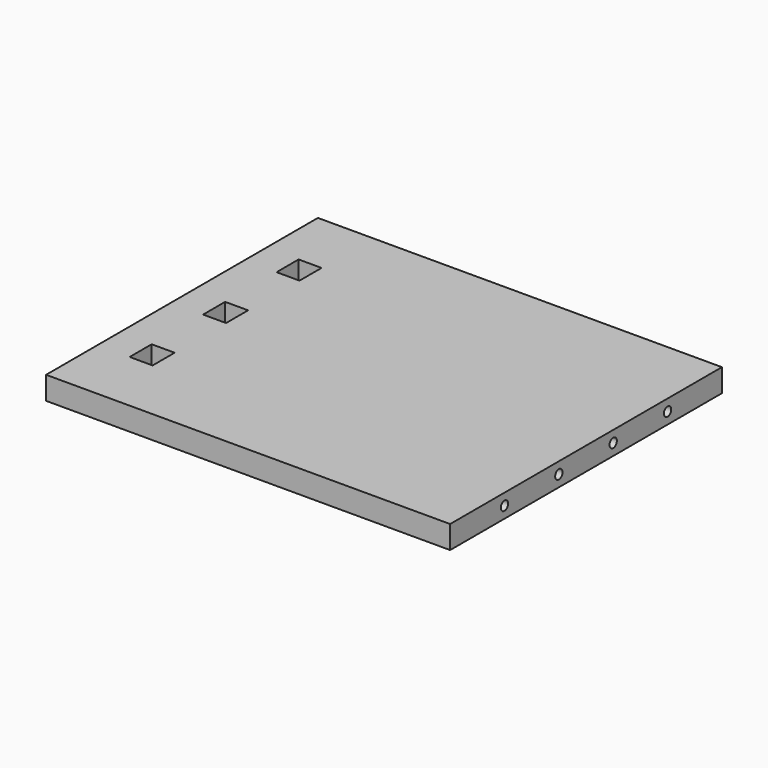
from build123d import *

# Parameters (mm, degrees)
F0_W     = 440
F0_H     = 370
F0_W_2   = 25
F0_H_2   = 30
F1_DEPTH = 25
F2_R     = 5
F3_DEPTH = 25


with BuildPart() as f1:
    # F0 (on Top) → F1 (new body)
    with BuildSketch(Plane.XY):
        with Locations((-105.956609, -3.720738)):
            Rectangle(F0_W, F0_H)
        with Locations((-278.456609, -103.720738)):
            Rectangle(F0_W_2, F0_H_2, mode=Mode.SUBTRACT)
        with Locations((-278.456609, -3.720738)):
            Rectangle(F0_W_2, F0_H_2, mode=Mode.SUBTRACT)
        with Locations((-278.456609, 96.279262)):
            Rectangle(F0_W_2, F0_H_2, mode=Mode.SUBTRACT)
    extrude(amount=F1_DEPTH)

    # F2 (on face) → F3 (cut)
    with BuildSketch(Plane.YZ.offset(114.043391)):
        with Locations((-114.720738, 12.5)):
            Circle(F2_R)
        with Locations((-40.720738, 12.5)):
            Circle(F2_R)
        with Locations((33.279262, 12.5)):
            Circle(F2_R)
        with Locations((107.279262, 12.5)):
            Circle(F2_R)
    extrude(amount=-F3_DEPTH, mode=Mode.SUBTRACT)


solid = f1.part
